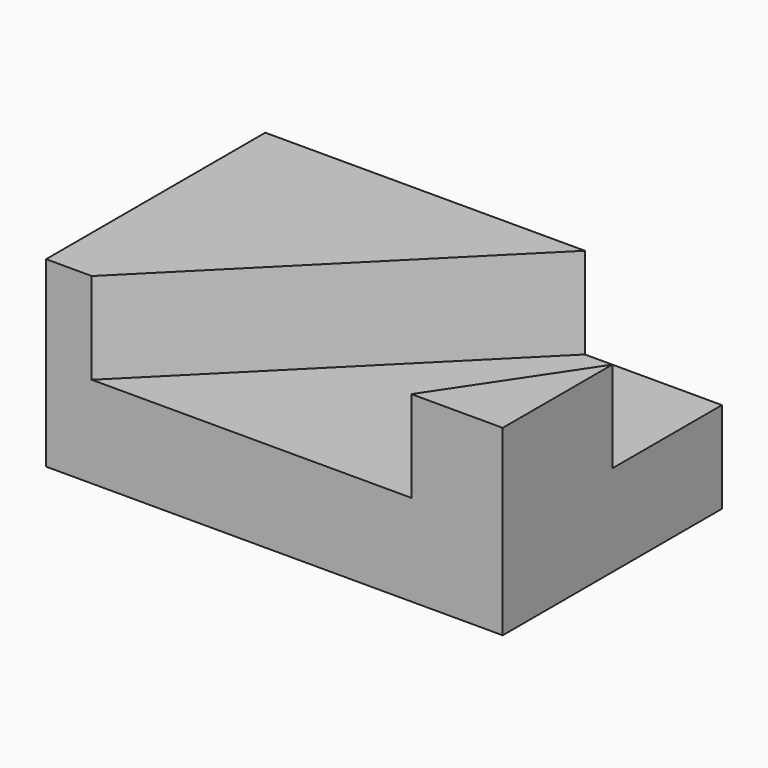
from build123d import *

# Parameters (mm, degrees)
F0_W     = 38.1
F0_H     = 25.4
F1_DEPTH = 63.5
F7_DEPTH = 12.7


with BuildPart() as f1:
    # F0 (on Right) → F1 (new body)
    with BuildSketch(Plane.YZ):
        with Locations((19.05, 12.7)):
            Rectangle(F0_W, F0_H)
    extrude(amount=-F1_DEPTH)

    # F6 (on face) → F7 (cut)
    with BuildSketch(Plane.XY.offset(25.4)):
        Polygon((-12.7, 0), (0, 19.05), (0, 38.1), (-19.05, 38.1), (-57.15, 0), align=None)
    extrude(amount=-F7_DEPTH, mode=Mode.SUBTRACT)


solid = f1.part
